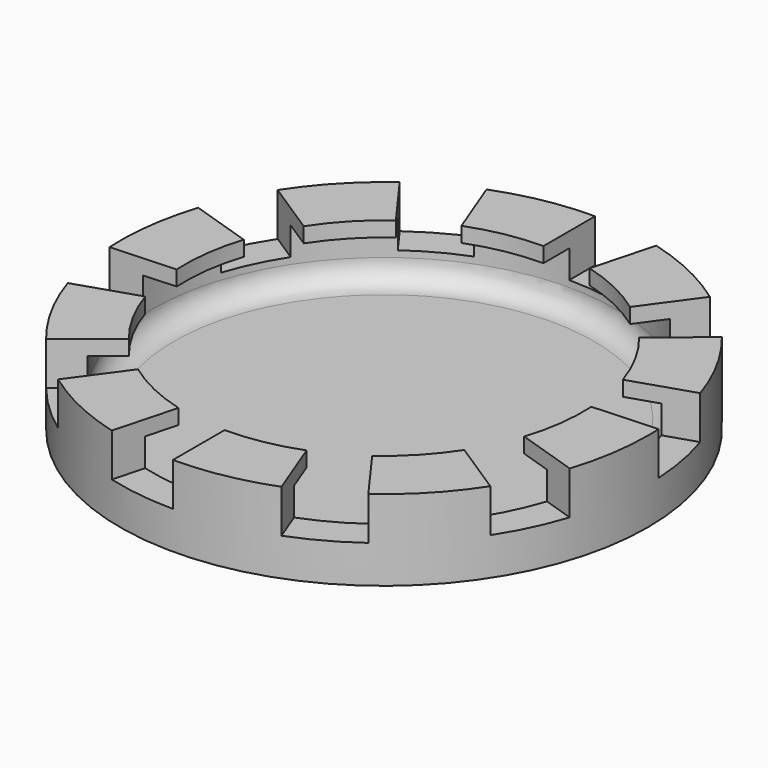
from build123d import *

# Parameters (mm, degrees)
F0_R     = 24.5
F1_DEPTH = 7.5
F2_R     = 21.5
F3_DEPTH = 6.6
F5_R     = 21.5
F5_R_2   = 18.5
F6_DEPTH = 1.4
F8_DEPTH = 4
F9_R     = 2


with BuildPart() as f1:
    # F0 (on Top) → F1 (new body)
    with BuildSketch(Plane.XY):
        Circle(F0_R)
    extrude(amount=F1_DEPTH)

    # F2 (on face) → F3 (cut)
    with BuildSketch(Plane.XY.offset(7.5)):
        Circle(F2_R)
    extrude(amount=-F3_DEPTH, mode=Mode.SUBTRACT)

    # F5 (on offset) → F6 (join, through all)
    with BuildSketch(Plane.XY.offset(6.1)):
        Circle(F5_R)
        Circle(F5_R_2, mode=Mode.SUBTRACT)
    extrude(amount=F6_DEPTH)

    # F7 (on face) → F8 (cut)
    with BuildSketch(Plane.XY.offset(7.5)):
        Polygon((0, 27.140824), (0, 0), (7.272362, 27.140824), align=None)
        Polygon((-15.952976, 21.957388), (0, 0), (-10.069512, 26.231975), align=None)
        Polygon((-25.812457, 8.386976), (0, 0), (-23.565174, 15.303403), align=None)
        Polygon((-25.812457, -8.386976), (0, 0), (-28.059741, -1.470549), align=None)
        Polygon((-15.952976, -21.957388), (0, 0), (-21.83644, -17.682801), align=None)
        Polygon((0, -27.140824), (0, 0), (-7.272362, -27.140824), align=None)
        Polygon((15.952976, -21.957388), (0, 0), (10.069512, -26.231975), align=None)
        Polygon((25.812457, -8.386976), (0, 0), (23.565174, -15.303403), align=None)
        Polygon((25.812457, 8.386976), (0, 0), (28.059741, 1.470549), align=None)
        Polygon((15.952976, 21.957388), (0, 0), (21.83644, 17.682801), align=None)
    extrude(amount=-F8_DEPTH, mode=Mode.SUBTRACT)

    # F9
    f9_edges = [f1.edges().sort_by_distance(p)[0] for p in [
        (-21.5, 0, 0.9),
    ]]
    fillet(f9_edges, radius=F9_R)


solid = f1.part
